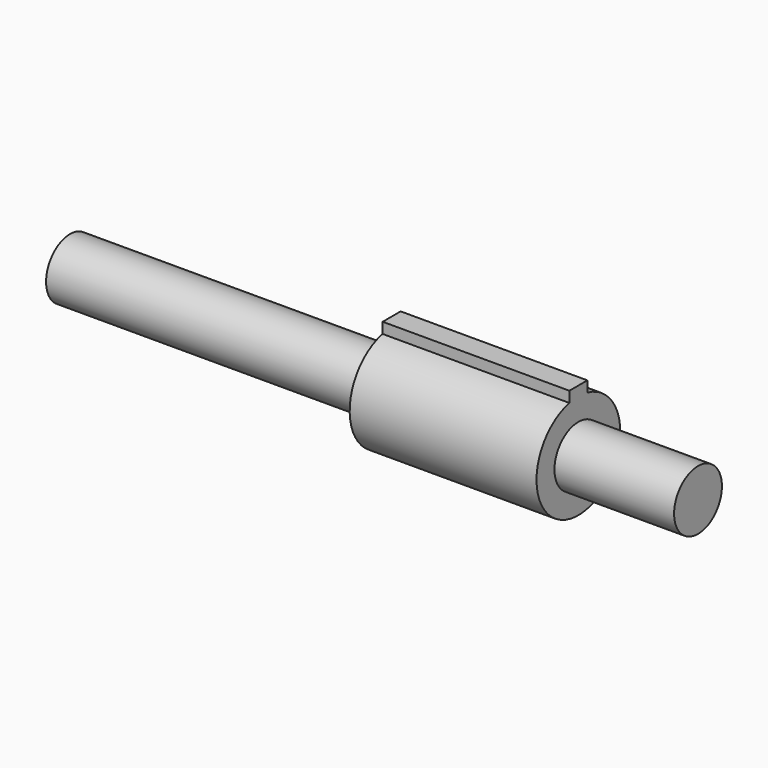
from build123d import *

# Parameters (mm, degrees)
F3_DEPTH = 39.65
F4_DEPTH = 12.7
F5_DEPTH = 12.7


with BuildPart() as f1:
    # F0 (on Front) → F1 (revolve)
    with BuildSketch(Plane.XZ):
        Polygon((0, 6.35), (0, 0), (133.35, 0), (133.35, 6.35), (120.65, 6.35), (120.65, 11.1125), (80.9773877263, 11.1125), (80.9773877263, 6.35), align=None)
    revolve(axis=Axis((66.675, 0, 0), (1, 0, 0)))

    # F2 (on face) → F3 (join)
    with BuildSketch(Plane.YZ.offset(120.65)):
        with BuildLine():
            Line((-2.3876, 13.1389729793), (-2.3876, 10.8529729793))
            ThreePointArc((-2.3876, 10.8529729793), (0, 11.1125), (2.3876, 10.8529729793))
            Line((2.3876, 10.8529729793), (2.3876, 13.1389729793))
            Line((2.3876, 13.1389729793), (-2.3876, 13.1389729793))
        make_face()
    extrude(amount=-F3_DEPTH)

    # F4 (add): a face of the model
    f4_faces = [f1.faces().sort_by_distance(p)[0] for p in [
        (133.35, 0, 0),
    ]]
    extrude(f4_faces, amount=F4_DEPTH)

    # F5 (cut): a face of the model
    f5_faces = [f1.faces().sort_by_distance(p)[0] for p in [
        (0, 0, 0),
    ]]
    extrude(f5_faces, amount=-F5_DEPTH, mode=Mode.SUBTRACT)


solid = f1.part
